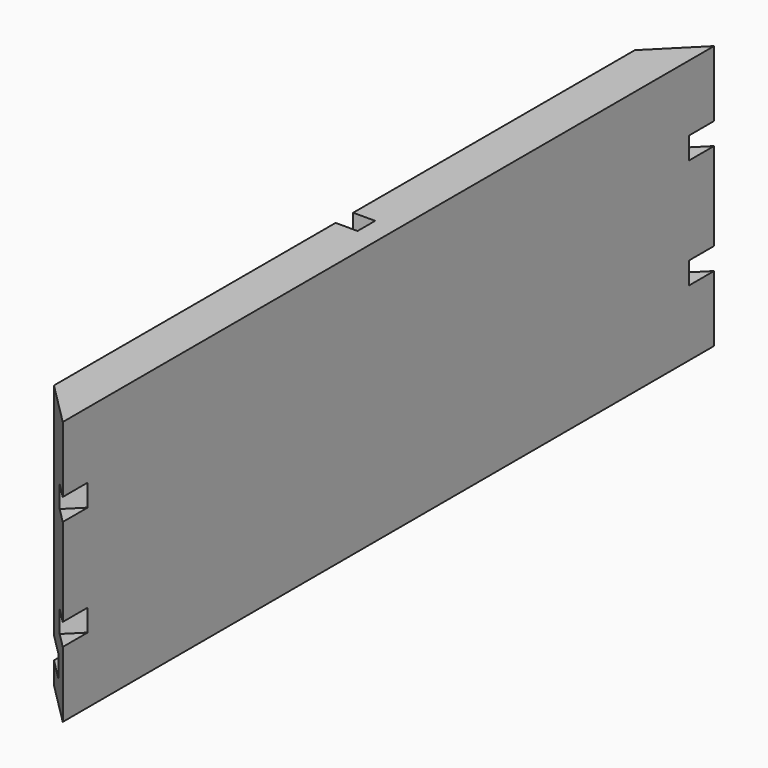
from build123d import *

# Parameters (mm, degrees)
F0_W      = 234.95
F0_H      = 76.2
F1_DEPTH  = 12.7
F2_W      = 6.35
F2_H      = 6.35
F3_DEPTH  = 234.951
F5_DEPTH  = 76.201
F6_W      = 6.35
F6_H      = 63.5
F7_DEPTH  = 6.35
F8_W      = 6.35
F8_H      = 6.35
F9_DEPTH  = 166.135738
F10_W     = 6.35
F10_H     = 6.35
F11_DEPTH = 166.135738


with BuildPart() as f1:
    # F0 (on Right) → F1 (new body)
    with BuildSketch(Plane.YZ):
        with Locations((0, 38.1)):
            Rectangle(F0_W, F0_H)
    extrude(amount=F1_DEPTH)

    # F2 (on face) → F3 (cut, through all)
    with BuildSketch(Plane(origin=(0, 117.475, 0), x_dir=(-1, 0, 0), z_dir=(0, 1, 0))):
        with Locations((-3.175, 9.525)):
            Rectangle(F2_W, F2_H)
    extrude(amount=-F3_DEPTH, mode=Mode.SUBTRACT)

    # F4 (on face) → F5 (cut, through all)
    with BuildSketch(Plane.XY.offset(76.2)):
        Polygon((0, 104.775), (12.7, 117.475), (0, 117.475), align=None)
        Polygon((0, -104.775), (0, -117.475), (12.7, -117.475), align=None)
    extrude(amount=-F5_DEPTH, mode=Mode.SUBTRACT)

    # F6 (on face) → F7 (cut)
    with BuildSketch(Plane(origin=(0, 0, 0), x_dir=(0, -1, 0), z_dir=(-1, 0, 0))):
        with Locations((0, 44.45)):
            Rectangle(F6_W, F6_H)
    extrude(amount=-F7_DEPTH, mode=Mode.SUBTRACT)

    # F8 (on face) → F9 (cut, through all)
    with BuildSketch(Plane(origin=(-52.3875, -52.3875, 0), x_dir=(0.707107, -0.707107, 0), z_dir=(-0.707107, -0.707107, 0))):
        with Locations((88.872625, 53.975)):
            Rectangle(F8_W, F8_H)
        with Locations((88.872625, 22.225)):
            Rectangle(F8_W, F8_H)
    extrude(amount=-F9_DEPTH, mode=Mode.SUBTRACT)

    # F10 (on face) → F11 (cut, through all)
    with BuildSketch(Plane(origin=(-52.3875, 52.3875, 0), x_dir=(-0.707107, -0.707107, 0), z_dir=(-0.707107, 0.707107, 0))):
        with Locations((-88.872625, 53.975)):
            Rectangle(F10_W, F10_H)
        with Locations((-88.872625, 22.225)):
            Rectangle(F10_W, F10_H)
    extrude(amount=-F11_DEPTH, mode=Mode.SUBTRACT)


solid = f1.part
